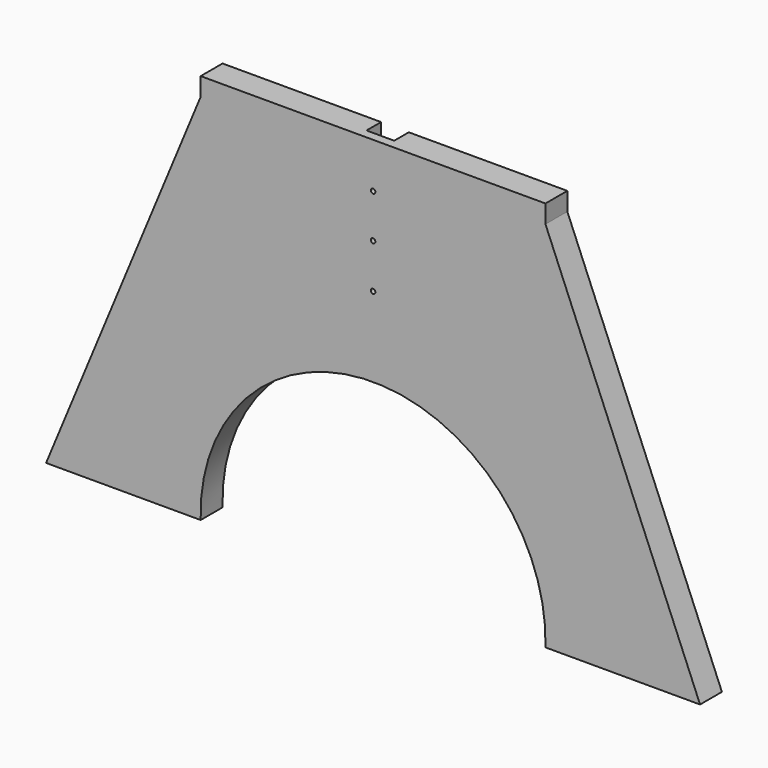
from build123d import *

# Parameters (mm, degrees)
F1_DEPTH = 19.05
F2_R     = 1.5875
F3_DEPTH = 12.7
F4_DEPTH = 19.05
F5_DEPTH = 19.05
F6_DEPTH = 19.05


with BuildPart() as f1:
    # F0 (on Front) → F1 (new body)
    with BuildSketch(Plane.XZ):
        with BuildLine():
            Line((120.142, 155.7741917981), (0, 155.7741917981))
            Line((0, 155.7741917981), (-120.142, 155.7741917981))
            Line((-120.142, 155.7741917981), (-120.142, 143.0741917981))
            Line((-120.142, 143.0741917981), (-227.8642566605, -116.5812388062))
            Line((-227.8642566605, -116.5812388062), (-120.142, -116.5812388062))
            ThreePointArc((-120.142, -116.5812388062), (0, 7.246479044), (120.142, -116.5812388062))
            Line((120.142, -116.5812388062), (227.8642566605, -116.5812388062))
            Line((227.8642566605, -116.5812388062), (120.142, 143.0741917981))
            Line((120.142, 143.0741917981), (120.142, 155.7741917981))
        make_face()
    extrude(amount=F1_DEPTH)

    # F2 (on Front) → F3 (cut)
    with BuildSketch(Plane.XZ):
        Polygon((-9.652, 29.7901917981), (0, 29.7901917981), (9.652, 29.7901917981), (9.652, 155.7741917981), (0, 155.7741917981), (-9.652, 155.7741917981), align=None)
        with Locations((0, 62.8101917981)):
            Circle(F2_R, mode=Mode.SUBTRACT)
        with Locations((0, 93.7981917981)):
            Circle(F2_R, mode=Mode.SUBTRACT)
        with Locations((0, 124.2781917981)):
            Circle(F2_R, mode=Mode.SUBTRACT)
    extrude(amount=F3_DEPTH, mode=Mode.SUBTRACT)

    # F4 (cut): a face of the model
    f4_faces = [f1.faces().sort_by_distance(p)[0] for p in [
        (0, 0, 124.2781917981),
    ]]
    extrude(f4_faces, amount=-F4_DEPTH, mode=Mode.SUBTRACT)

    # F5 (cut): a face of the model
    f5_faces = [f1.faces().sort_by_distance(p)[0] for p in [
        (0, 0, 93.7981917981),
    ]]
    extrude(f5_faces, amount=-F5_DEPTH, mode=Mode.SUBTRACT)

    # F6 (cut): a face of the model
    f6_faces = [f1.faces().sort_by_distance(p)[0] for p in [
        (0, 0, 62.8101917981),
    ]]
    extrude(f6_faces, amount=-F6_DEPTH, mode=Mode.SUBTRACT)


solid = f1.part
